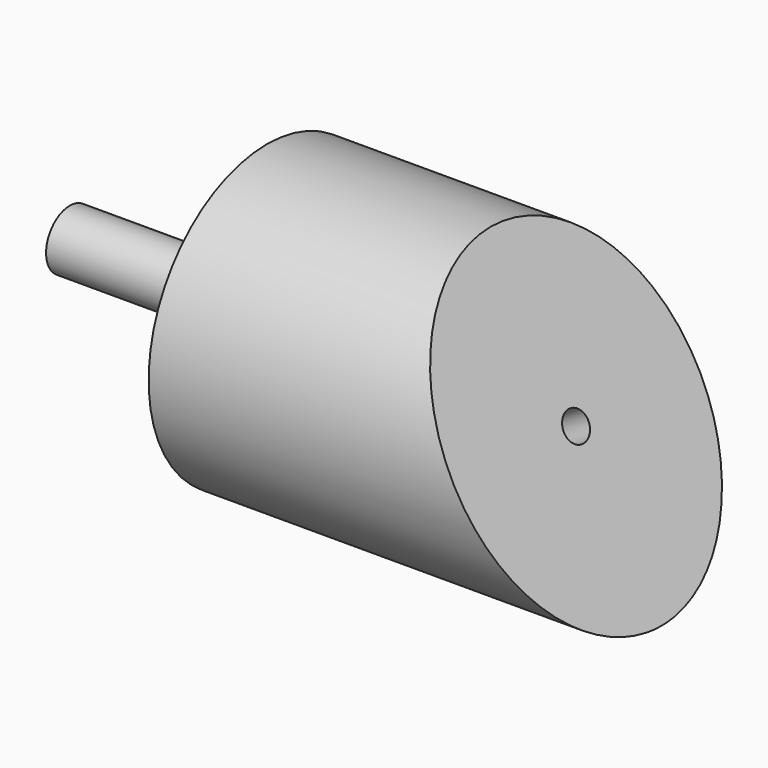
from build123d import *

# Parameters (mm, degrees)
F3_DEPTH      = 7.501
F3_DEPTH_BACK = 7.501
F4_R          = 0.75
F5_DEPTH      = 10


with BuildPart() as f1:
    # F0 (on Front) → F1 (revolve)
    with BuildSketch(Plane.XZ):
        Polygon((30, 7.5), (10, 7.5), (10, 1.5), (0, 1.5), (0, 0), (30, 0), align=None)
        Polygon((30, 7.5), (10, 7.5), (10, 1.5), (0, 1.5), (0, 0), (30, 0), align=None)
    revolve(axis=Axis((8.7773360142, 0, 0), (1, 0, 0)))

    # F2 (on Front) → F3 (cut, two sides)
    with BuildSketch(Plane.XZ) as f3_sk:
        Polygon((21.3397459622, 7.5), (30, -7.5), (30, 7.5), align=None)
    extrude(amount=-F3_DEPTH, mode=Mode.SUBTRACT)
    extrude(f3_sk.sketch, amount=F3_DEPTH_BACK, mode=Mode.SUBTRACT)

    # F4 (on face) → F5 (cut)
    with BuildSketch(Plane(origin=(19.2524047358, 0, 11.1153810568), x_dir=(0, 1, 0), z_dir=(0.8660254038, 0, 0.5))):
        with Locations((0, -12.8349364905)):
            Circle(F4_R)
    extrude(amount=-F5_DEPTH, mode=Mode.SUBTRACT)


solid = f1.part
